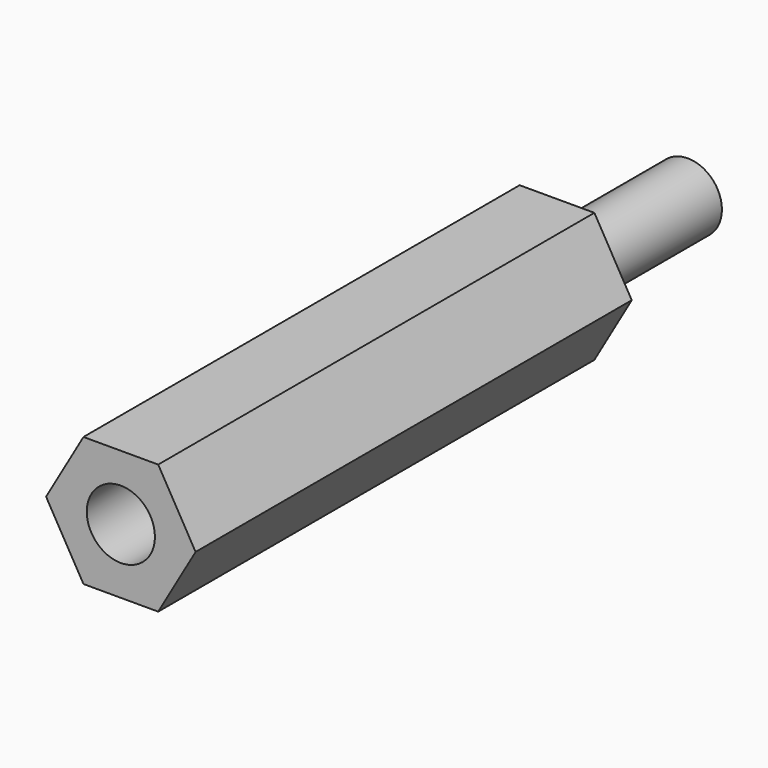
from build123d import *

# Parameters (mm, degrees)
PAD008_DEPTH            = 20
SKETCH021_R             = 1.25
PAD007_DEPTH            = 6
SKETCH023_R             = 1.25
POCKET013_DEPTH         = 5
BODY009_PLACEMENT_ANGLE = 90


with BuildPart() as part:
    # Sketch022 → Pad008 (new body)
    with BuildSketch(Plane.XY):
        Polygon((1.371207, 2.375), (-1.371207, 2.375), (-2.742414, 0), (-1.371207, -2.375), (1.371207, -2.375), (2.742414, 0), align=None)
    extrude(amount=PAD008_DEPTH)

    # Sketch021 (on Face7 of Pad008) → Pad007 (join)
    with BuildSketch(Plane(origin=(0, 0, 0), x_dir=(1, 0, 0), z_dir=(0, 0, -1))):
        Circle(SKETCH021_R)
    extrude(amount=PAD007_DEPTH)

    # Sketch023 (on Face5 of Pad007) → Pocket013 (cut)
    with BuildSketch(Plane.XY.offset(20)):
        Circle(SKETCH023_R)
    extrude(amount=-POCKET013_DEPTH, mode=Mode.SUBTRACT)


with BuildPart() as part_1:
    # Body009 placement: moved
    add(part.part.moved(Location((61, -23.8, -13.5))).rotate(Axis((61, -23.8, -13.5), (1, 0, 0)), BODY009_PLACEMENT_ANGLE))


with BuildPart() as part_2:
    # Body010 placement: moved
    add(part_1.part.moved(Location((58, 0, 0))))


solid = part_2.part
